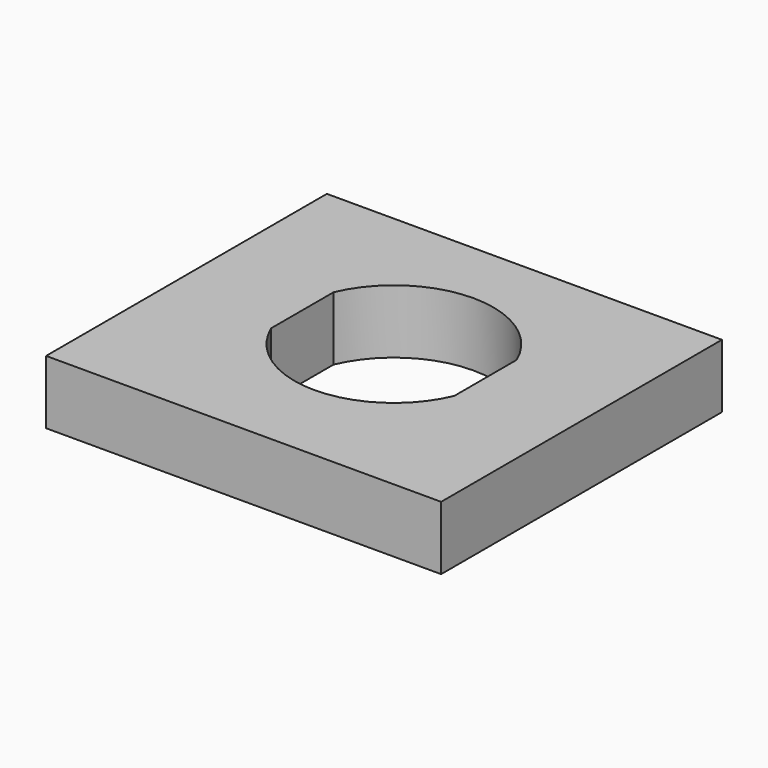
from build123d import *

# Parameters (mm, degrees)
F0_W     = 24.809369
F0_H     = 22.040591
F1_DEPTH = 4


with BuildPart() as f1:
    # F0 (on Top) → F1 (new body)
    with BuildSketch(Plane.XY):
        with Locations((-21.03316, 9.45243)):
            Rectangle(F0_W, F0_H)
        with BuildLine():
            ThreePointArc((-15.153145, 7.615341), (-20.903145, 3.81483), (-26.653145, 7.615341))
            Line((-26.653145, 7.615341), (-26.653145, 12.51432))
            ThreePointArc((-26.653145, 12.51432), (-20.903145, 16.31483), (-15.153145, 12.51432))
            Line((-15.153145, 12.51432), (-15.153145, 7.615341))
        make_face(mode=Mode.SUBTRACT)
    extrude(amount=F1_DEPTH)


solid = f1.part
